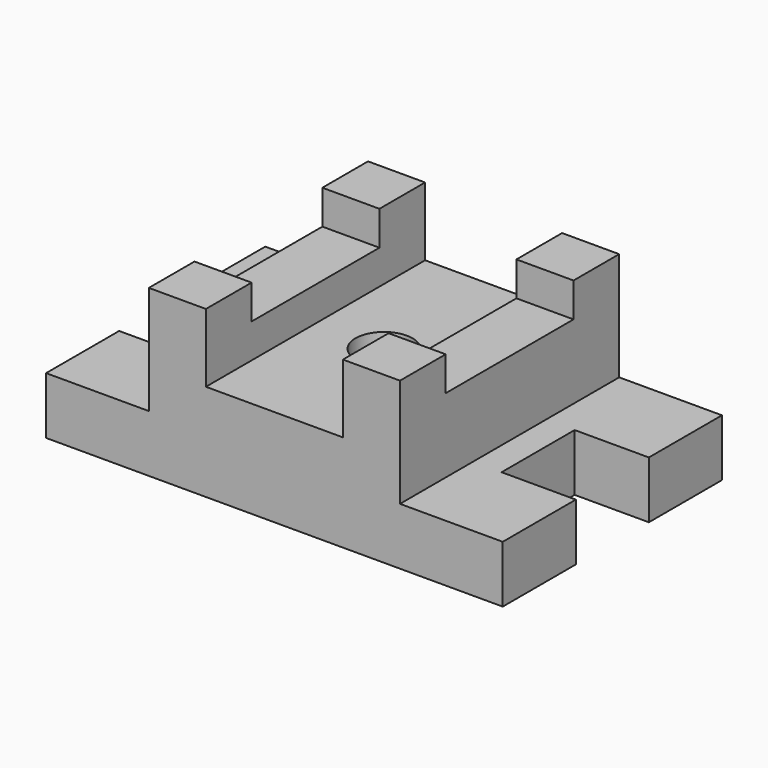
from build123d import *

# Parameters (mm, degrees)
F1_DEPTH = 31.75
F2_W     = 69.85
F2_H     = 152.4
F3_DEPTH = 22.225
F4_W     = 31.75
F4_H     = 152.4
F5_DEPTH = 19.05
F7_D     = 31.75
F8_W     = 31.75
F8_H     = 31.75
F9_DEPTH = 19.05


with BuildPart() as f1:
    # F0 (on Top) → F1 (new body)
    with BuildSketch(Plane.XY):
        Polygon((0, -76.2), (0, 76.2), (-127, 76.2), (-127, 25.4), (-85.725, 25.4), (-85.725, -25.4), (-127, -25.4), (-127, -76.2), align=None)
        Polygon((127, 76.2), (0, 76.2), (0, -76.2), (127, -76.2), (127, -25.4), (85.725, -25.4), (85.725, 25.4), (127, 25.4), align=None)
    extrude(amount=F1_DEPTH)

    # F2 (on face) → F3 (join)
    with BuildSketch(Plane.XY.offset(31.75)):
        with Locations((34.925, 0)):
            Rectangle(F2_W, F2_H)
        with Locations((-34.925, 0)):
            Rectangle(F2_W, F2_H)
    extrude(amount=F3_DEPTH)

    # F4 (on face) → F5 (join)
    with BuildSketch(Plane.XY.offset(53.975)):
        with Locations((53.975, 0)):
            Rectangle(F4_W, F4_H)
        with Locations((-53.975, 0)):
            Rectangle(F4_W, F4_H)
    extrude(amount=F5_DEPTH)

    # F7 (through all)
    with Locations(Plane.XY.offset(53.975)):
        with Locations((0, 0)):
            Hole(F7_D / 2)

    # F8 (on face) → F9 (join)
    with BuildSketch(Plane.XY.offset(73.025)):
        with Locations((-53.975, 60.325)):
            Rectangle(F8_W, F8_H)
        with Locations((-53.975, -60.325)):
            Rectangle(F8_W, F8_H)
        with Locations((53.975, 60.325)):
            Rectangle(F8_W, F8_H)
        with Locations((53.975, -60.325)):
            Rectangle(F8_W, F8_H)
    extrude(amount=F9_DEPTH)


solid = f1.part
